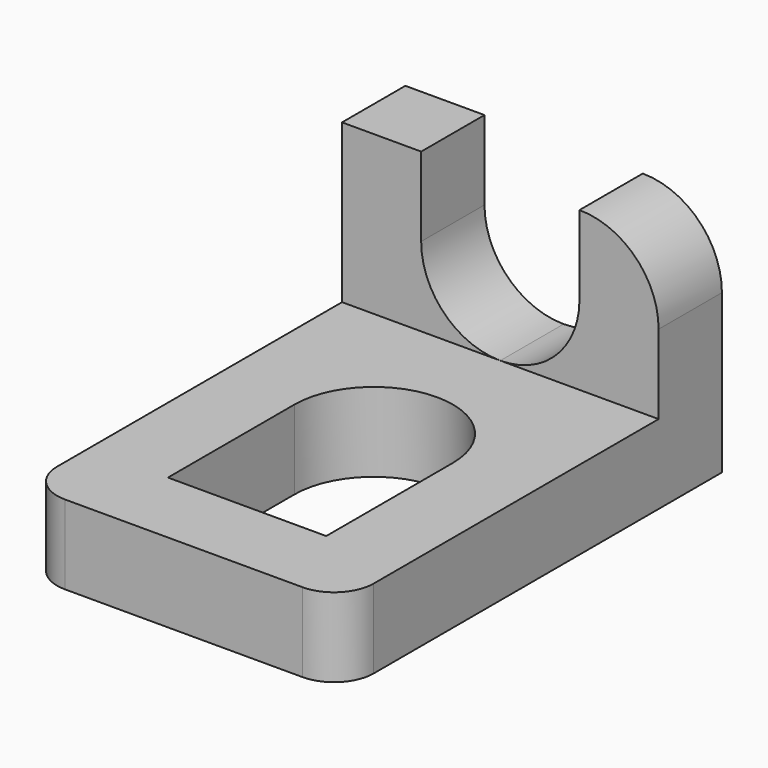
from build123d import *

# Parameters (mm, degrees)
F1_DEPTH = 1
F3_DEPTH = 1
F5_DEPTH = 1


with BuildPart() as f1:
    # F0 (on Top) → F1 (new body)
    with BuildSketch(Plane.XY):
        with BuildLine():
            Line((0, 6), (0, 0.5))
            ThreePointArc((0, 0.5), (0.146447, 0.146447), (0.5, 0))
            Line((0.5, 0), (3.5, 0))
            ThreePointArc((3.5, 0), (3.853553, 0.146447), (4, 0.5))
            Line((4, 0.5), (4, 6))
            Line((4, 6), (0, 6))
        make_face()
    extrude(amount=F1_DEPTH)

    # F2 (on face) → F3 (cut)
    with BuildSketch(Plane.XY.offset(1)):
        with BuildLine():
            Line((1, 3), (1, 1))
            Line((1, 1), (3, 1))
            Line((3, 1), (3, 3))
            ThreePointArc((3, 3), (2, 4), (1, 3))
        make_face()
    extrude(amount=-F3_DEPTH, mode=Mode.SUBTRACT)

    # F4 (on face) → F5 (join)
    with BuildSketch(Plane(origin=(0, 6, 0), x_dir=(-1, 0, 0), z_dir=(0, 1, 0))):
        with BuildLine():
            Line((-2, 1), (0, 1))
            Line((0, 1), (0, 3))
            Line((0, 3), (-1, 3))
            Line((-1, 3), (-1, 2))
            ThreePointArc((-1, 2), (-1.292893, 1.292893), (-2, 1))
        make_face()
        with BuildLine():
            Line((-4, 1), (-2, 1))
            ThreePointArc((-2, 1), (-2.707107, 1.292893), (-3, 2))
            Line((-3, 2), (-3, 3))
            ThreePointArc((-3, 3), (-3.707107, 2.707107), (-4, 2))
            Line((-4, 2), (-4, 1))
        make_face()
    extrude(amount=-F5_DEPTH)


solid = f1.part
